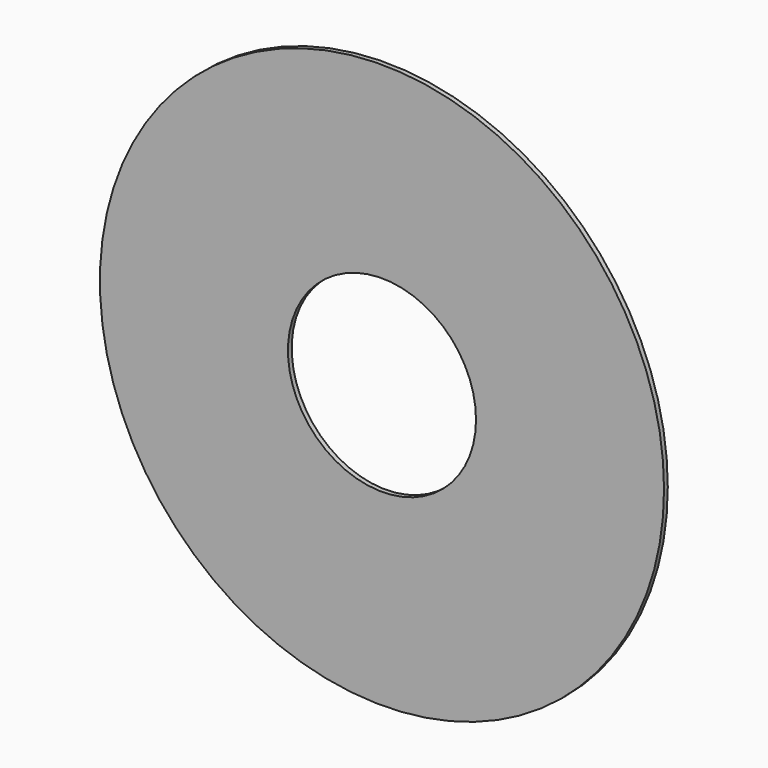
from build123d import *

# Parameters (mm, degrees)
F0_R     = 76.2
F0_R_2   = 25.4
F1_DEPTH = 1.27
F2_DEPTH = 1.27


with BuildPart() as f1:
    # F0 (on Front) → F1 (new body)
    with BuildSketch(Plane.XZ):
        Circle(F0_R)
        Circle(F0_R_2, mode=Mode.SUBTRACT)
    extrude(amount=F1_DEPTH)


with BuildPart() as f2:
    # F0 (on Front) → F2 (new body)
    with BuildSketch(Plane.XZ):
        Circle(F0_R)
        Circle(F0_R_2, mode=Mode.SUBTRACT)
    extrude(amount=F2_DEPTH)


solid = Compound([f1.part, f2.part])
